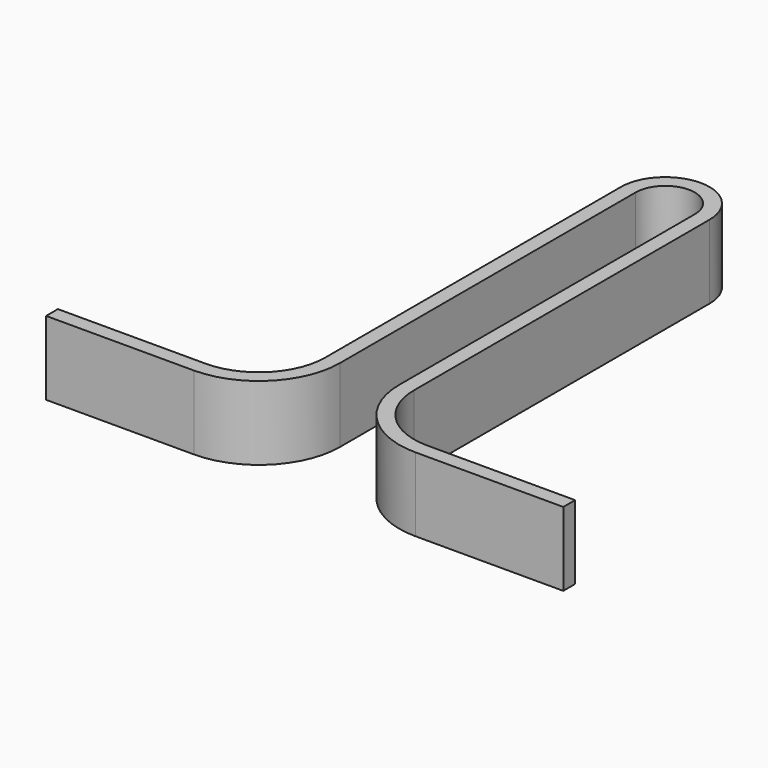
from build123d import *

# Parameters (mm, degrees)
SKETCH_W = 1
SKETCH_H = 5


with BuildPart() as part:
    # AdditivePipe: sweep along a path in Sketch001
    with BuildLine(Plane.XY) as additivepipe_path:
        Line((0, 0), (10, 0))
        ThreePointArc((10, 0), (13.535525, 1.464457), (15, 4.999975))
        Line((15, 4.999975), (15, 30.000013))
        ThreePointArc((15, 30.000013), (17.500007, 32.5), (20, 29.999999))
        Line((20, 29.999999), (20, 5.000002))
        ThreePointArc((20, 5.000002), (21.464465, 1.464467), (25, 0))
        Line((25, 0), (35, 0))
    # Sketch → AdditivePipe (sweep)
    with BuildSketch(Plane.YZ):
        with Locations((0, 2.5)):
            Rectangle(SKETCH_W, SKETCH_H)
    sweep(path=additivepipe_path.line)


solid = part.part
